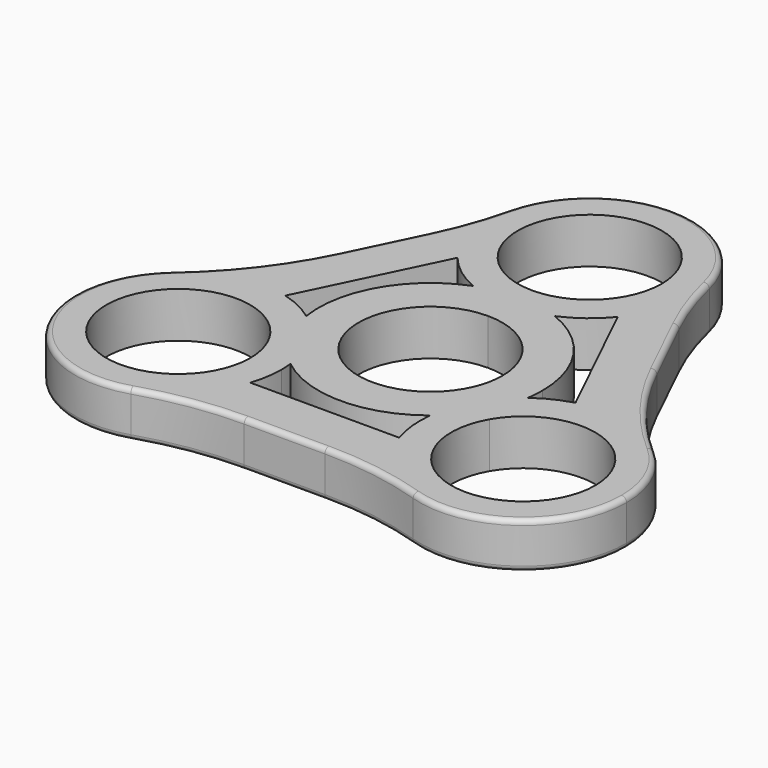
from build123d import *

# Parameters (mm, degrees)
F1_DEPTH = 6.985
F2_R     = 50.8
F3_R     = 0.762
F4_R     = 0.762


with BuildPart() as f1:
    # F0 (on Top) → F1 (new body)
    with BuildSketch(Plane.XY):
        with BuildLine():
            ThreePointArc((-6.2554756572, 15.9630839534), (-3.1830763908, 16.8469299782), (0, 17.145))
            ThreePointArc((0, 17.145), (3.1830763908, 16.8469299782), (6.2554756572, 15.9630839534))
            ThreePointArc((6.2554756572, 15.9630839534), (9.5294349524, 17.8680335914), (12.2562140059, 20.4971624553))
            ThreePointArc((12.2562140059, 20.4971624553), (14.8931175874, 25.1821819838), (15.8073346015, 30.48))
            ThreePointArc((15.8073346015, 30.48), (0, 46.2873346015), (-15.8073346015, 30.48))
            ThreePointArc((-15.8073346015, 30.48), (-14.8931175874, 25.1821819838), (-12.2562140059, 20.4971624553))
            ThreePointArc((-12.2562140059, 20.4971624553), (-9.5294349524, 17.8680335914), (-6.2554756572, 15.9630839534))
        make_face()
        with BuildLine():
            ThreePointArc((11.0109, 30.48), (7.785882057, 22.694117943), (0, 19.4691))
            ThreePointArc((0, 19.4691), (-7.785882057, 38.265882057), (11.0109, 30.48))
        make_face(mode=Mode.SUBTRACT)
        with BuildLine():
            ThreePointArc((16.952174055, -2.5641411448), (16.1814075323, -5.6668399724), (14.8480055479, -8.5725))
            ThreePointArc((14.8480055479, -8.5725), (12.9983311415, -11.1800900057), (10.6966983977, -13.3989428086))
            ThreePointArc((10.6966983977, -13.3989428086), (10.6705675574, -16.8425957477), (11.3908194918, -20.2101862123))
            ThreePointArc((11.3908194918, -20.2101862123), (13.5737626184, -24.4839388278), (16.9385483902, -27.9056955145))
            ThreePointArc((16.9385483902, -27.9056955145), (33.4805048345, -29.3711024104), (42.2037889088, -15.24))
            ThreePointArc((42.2037889088, -15.24), (38.9705171928, -5.6606070257), (30.5933849958, 0))
            ThreePointArc((30.5933849958, 0), (26.3964543073, 0.5673346015), (22.1995236189, 0))
            ThreePointArc((22.1995236189, 0), (19.456399269, -1.0376247315), (16.952174055, -2.5641411448))
        make_face()
        with BuildLine():
            ThreePointArc((37.4073543073, -15.24), (23.5466236836, -25.8757126807), (16.8607351888, -9.73455))
            ThreePointArc((16.8607351888, -9.73455), (29.2462849311, -4.6042873193), (37.4073543073, -15.24))
        make_face(mode=Mode.SUBTRACT)
        with BuildLine():
            ThreePointArc((-10.6966983977, -13.3989428086), (-12.9983311415, -11.1800900057), (-14.8480055479, -8.5725))
            ThreePointArc((-14.8480055479, -8.5725), (-16.1814075323, -5.6668399724), (-16.952174055, -2.5641411448))
            ThreePointArc((-16.952174055, -2.5641411448), (-19.456399269, -1.0376247315), (-22.1995236189, 0))
            ThreePointArc((-22.1995236189, 0), (-26.3964543073, 0.5673346015), (-30.5933849958, 0))
            ThreePointArc((-30.5933849958, 0), (-40.5950959898, -22.1876903772), (-16.9385483902, -27.9056955145))
            ThreePointArc((-16.9385483902, -27.9056955145), (-13.5737626184, -24.4839388278), (-11.3908194918, -20.2101862123))
            ThreePointArc((-11.3908194918, -20.2101862123), (-10.7908316405, -17.7572144094), (-10.5891197059, -15.24))
            ThreePointArc((-10.5891197059, -15.24), (-10.6160372972, -14.3179012042), (-10.6966983977, -13.3989428086))
        make_face()
        with BuildLine():
            ThreePointArc((-15.3855543073, -15.24), (-37.032166988, -18.0898306237), (-16.8607351888, -9.73455))
            ThreePointArc((-16.8607351888, -9.73455), (-15.7607416267, -12.3901693763), (-15.3855543073, -15.24))
        make_face(mode=Mode.SUBTRACT)
        with BuildLine():
            Line((-22.1995236189, 0), (-12.2562140059, 20.4971624553))
            ThreePointArc((-12.2562140059, 20.4971624553), (-14.8931175874, 25.1821819838), (-15.8073346015, 30.48))
            Line((-15.8073346015, 30.48), (-30.5933849958, 0))
            ThreePointArc((-30.5933849958, 0), (-26.3964543073, 0.5673346015), (-22.1995236189, 0))
        make_face()
        with BuildLine():
            ThreePointArc((15.8073346015, 30.48), (14.8931175874, 25.1821819838), (12.2562140059, 20.4971624553))
            Line((12.2562140059, 20.4971624553), (22.1995236189, 0))
            ThreePointArc((22.1995236189, 0), (26.3964543073, 0.5673346015), (30.5933849958, 0))
            Line((30.5933849958, 0), (15.8073346015, 30.48))
        make_face()
        with BuildLine():
            ThreePointArc((16.9385483902, -27.9056955145), (13.5737626184, -24.4839388278), (11.3908194918, -20.2101862123))
            Line((11.3908194918, -20.2101862123), (-11.3908194918, -20.2101862123))
            ThreePointArc((-11.3908194918, -20.2101862123), (-13.5737626184, -24.4839388278), (-16.9385483902, -27.9056955145))
            Line((-16.9385483902, -27.9056955145), (16.9385483902, -27.9056955145))
        make_face()
        with BuildLine():
            ThreePointArc((0, 11.0109), (7.785882057, 7.785882057), (11.0109, 0))
            ThreePointArc((11.0109, 0), (10.6357126807, -2.8498306237), (9.5357191185, -5.50545))
            Line((9.5357191185, -5.50545), (12.7069009763, -7.3363326993))
            ThreePointArc((12.7069009763, -7.3363326993), (14.5859921181, -4.7335824336), (16.952174055, -2.5641411448))
            ThreePointArc((16.952174055, -2.5641411448), (17.0967255516, -1.2856906369), (17.145, 0))
            ThreePointArc((17.145, 0), (14.1633533307, 9.6618035288), (6.2554756572, 15.9630839534))
            ThreePointArc((6.2554756572, 15.9630839534), (3.1935934206, 14.9986309305), (0, 14.6726653985))
            Line((0, 14.6726653985), (0, 11.0109))
        make_face()
        with BuildLine():
            Line((12.7069009763, -7.3363326993), (9.5357191185, -5.50545))
            ThreePointArc((9.5357191185, -5.50545), (0, -11.0109), (-9.5357191185, -5.50545))
            Line((-9.5357191185, -5.50545), (-12.7069009763, -7.3363326993))
            ThreePointArc((-12.7069009763, -7.3363326993), (-11.3923986975, -10.2650484968), (-10.6966983977, -13.3989428086))
            ThreePointArc((-10.6966983977, -13.3989428086), (0, -17.145), (10.6966983977, -13.3989428086))
            ThreePointArc((10.6966983977, -13.3989428086), (11.3923986975, -10.2650484968), (12.7069009763, -7.3363326993))
        make_face()
        with BuildLine():
            ThreePointArc((-9.5357191185, -5.50545), (-9.5357191185, 5.50545), (0, 11.0109))
            Line((0, 11.0109), (0, 14.6726653985))
            ThreePointArc((0, 14.6726653985), (-3.1935934206, 14.9986309305), (-6.2554756572, 15.9630839534))
            ThreePointArc((-6.2554756572, 15.9630839534), (-14.8480055479, 8.5725), (-16.952174055, -2.5641411448))
            ThreePointArc((-16.952174055, -2.5641411448), (-14.5859921181, -4.7335824336), (-12.7069009763, -7.3363326993))
            Line((-12.7069009763, -7.3363326993), (-9.5357191185, -5.50545))
        make_face()
        with BuildLine():
            Line((14.8480055479, -8.5725), (12.7069009763, -7.3363326993))
            ThreePointArc((12.7069009763, -7.3363326993), (11.3923986975, -10.2650484968), (10.6966983977, -13.3989428086))
            ThreePointArc((10.6966983977, -13.3989428086), (12.9983311415, -11.1800900057), (14.8480055479, -8.5725))
        make_face()
        with BuildLine():
            ThreePointArc((16.952174055, -2.5641411448), (14.5859921181, -4.7335824336), (12.7069009763, -7.3363326993))
            Line((12.7069009763, -7.3363326993), (14.8480055479, -8.5725))
            ThreePointArc((14.8480055479, -8.5725), (16.1814075323, -5.6668399724), (16.952174055, -2.5641411448))
        make_face()
        with BuildLine():
            Line((0, 17.145), (0, 14.6726653985))
            ThreePointArc((0, 14.6726653985), (3.1935934206, 14.9986309305), (6.2554756572, 15.9630839534))
            ThreePointArc((6.2554756572, 15.9630839534), (3.1830763908, 16.8469299782), (0, 17.145))
        make_face()
        with BuildLine():
            ThreePointArc((-6.2554756572, 15.9630839534), (-3.1935934206, 14.9986309305), (0, 14.6726653985))
            Line((0, 14.6726653985), (0, 17.145))
            ThreePointArc((0, 17.145), (-3.1830763908, 16.8469299782), (-6.2554756572, 15.9630839534))
        make_face()
        with BuildLine():
            Line((-14.8480055479, -8.5725), (-12.7069009763, -7.3363326993))
            ThreePointArc((-12.7069009763, -7.3363326993), (-14.5859921181, -4.7335824336), (-16.952174055, -2.5641411448))
            ThreePointArc((-16.952174055, -2.5641411448), (-16.1814075323, -5.6668399724), (-14.8480055479, -8.5725))
        make_face()
        with BuildLine():
            ThreePointArc((-10.6966983977, -13.3989428086), (-11.3923986975, -10.2650484968), (-12.7069009763, -7.3363326993))
            Line((-12.7069009763, -7.3363326993), (-14.8480055479, -8.5725))
            ThreePointArc((-14.8480055479, -8.5725), (-12.9983311415, -11.1800900057), (-10.6966983977, -13.3989428086))
        make_face()
    extrude(amount=F1_DEPTH)

    # F2
    f2_edges = [f1.edges().sort_by_distance(p)[0] for p in [
        (16.938548, -27.905696, 3.4925),
        (-16.938548, -27.905696, 3.4925),
        (15.807335, 30.48, 3.4925),
        (30.593385, 0, 3.4925),
        (-15.807335, 30.48, 3.4925),
        (-30.593385, 0, 3.4925),
    ]]
    fillet(f2_edges, radius=F2_R)

    # F3
    f3_edges = [f1.edges().sort_by_distance(p)[0] for p in [
        (0, -27.905696, 0),
    ]]
    fillet(f3_edges, radius=F3_R)

    # F4
    f4_edges = [f1.edges().sort_by_distance(p)[0] for p in [
        (-21.716674, 18.298473, 6.985),
    ]]
    fillet(f4_edges, radius=F4_R)


solid = f1.part
